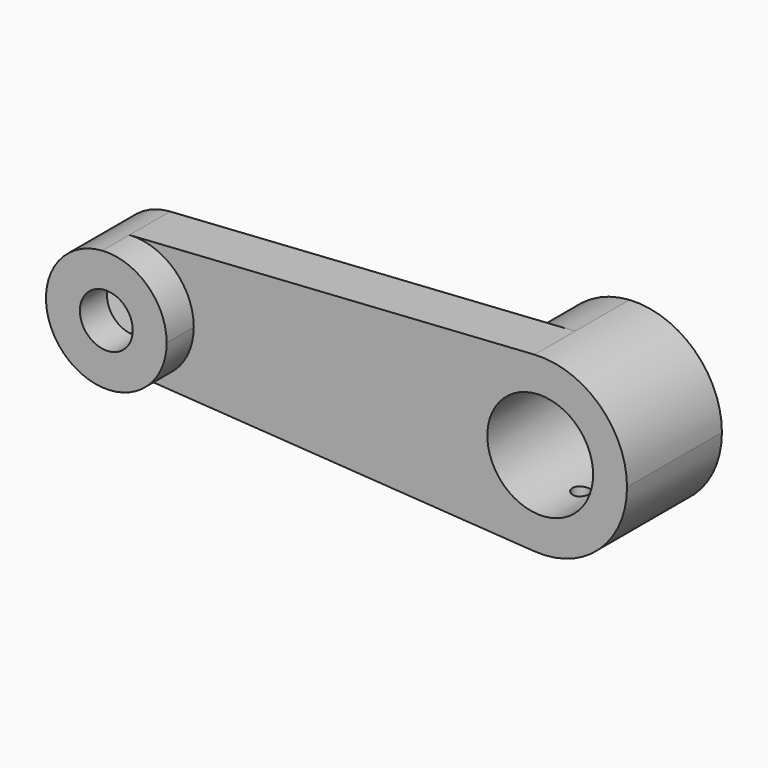
from build123d import *

# Parameters (mm, degrees)
F0_R     = 4.953
F1_DEPTH = 15.875
F0_R_2   = 9.906
F2_DEPTH = 9.525
F3_DEPTH = 12.7
F5_DEPTH = 9.525
F6_R     = 1.5875
F7_DEPTH = 15.875


with BuildPart() as f1:
    # F0 (on Front) → F1 (new body)
    with BuildSketch(Plane.XZ):
        with BuildLine():
            ThreePointArc((-0.734695, -11.279097), (7.72831, -8.248093), (11.303, 0))
            ThreePointArc((11.303, 0), (7.72831, 8.248093), (-0.734695, 11.279097))
            ThreePointArc((-0.734695, 11.279097), (-11.303, 0), (-0.734695, -11.279097))
        make_face()
        Circle(F0_R, mode=Mode.SUBTRACT)
    extrude(amount=F1_DEPTH)

    # F0 (on Front) → F2 (join)
    with BuildSketch(Plane.XZ):
        with BuildLine():
            ThreePointArc((-0.734695, -11.279097), (7.72831, -8.248093), (11.303, 0))
            ThreePointArc((11.303, 0), (7.72831, 8.248093), (-0.734695, 11.279097))
            ThreePointArc((-0.734695, 11.279097), (-11.303, 0), (-0.734695, -11.279097))
        make_face()
        Circle(F0_R, mode=Mode.SUBTRACT)
        with BuildLine():
            ThreePointArc((-0.734695, 11.279097), (7.72831, 8.248093), (11.303, 0))
            ThreePointArc((11.303, 0), (7.72831, -8.248093), (-0.734695, -11.279097))
            Line((-0.734695, -11.279097), (75.14336, -16.221623))
            ThreePointArc((75.14336, -16.221623), (59.944, 0), (75.14336, 16.221623))
            Line((75.14336, 16.221623), (-0.734695, 11.279097))
        make_face()
        with BuildLine():
            ThreePointArc((92.456, 0), (87.314873, 11.862425), (75.14336, 16.221623))
            ThreePointArc((75.14336, 16.221623), (59.944, 0), (75.14336, -16.221623))
            ThreePointArc((75.14336, -16.221623), (87.314873, -11.862425), (92.456, 0))
        make_face()
        with Locations((76.2, 0)):
            Circle(F0_R_2, mode=Mode.SUBTRACT)
    extrude(amount=F2_DEPTH)

    # F0 (on Front) → F3 (join)
    with BuildSketch(Plane.XZ):
        with BuildLine():
            ThreePointArc((92.456, 0), (87.314873, 11.862425), (75.14336, 16.221623))
            ThreePointArc((75.14336, 16.221623), (59.944, 0), (75.14336, -16.221623))
            ThreePointArc((75.14336, -16.221623), (87.314873, -11.862425), (92.456, 0))
        make_face()
        with Locations((76.2, 0)):
            Circle(F0_R_2, mode=Mode.SUBTRACT)
    extrude(amount=-F3_DEPTH)

    # F4 (on Front) → F5 (cut)
    with BuildSketch(Plane.XZ):
        Polygon((-4.819749, 7.967741), (-9.310141, -0.190155), (-4.490392, -8.157896), (4.819749, -7.967741), (9.310141, 0.190155), (4.490392, 8.157896), align=None)
    extrude(amount=F5_DEPTH, mode=Mode.SUBTRACT)

    # F6 (on Top) → F7 (cut, symmetric)
    with BuildSketch(Plane.XY):
        with Locations((76.223016, 0)):
            Circle(F6_R)
    extrude(amount=F7_DEPTH, both=True, mode=Mode.SUBTRACT)


solid = f1.part
